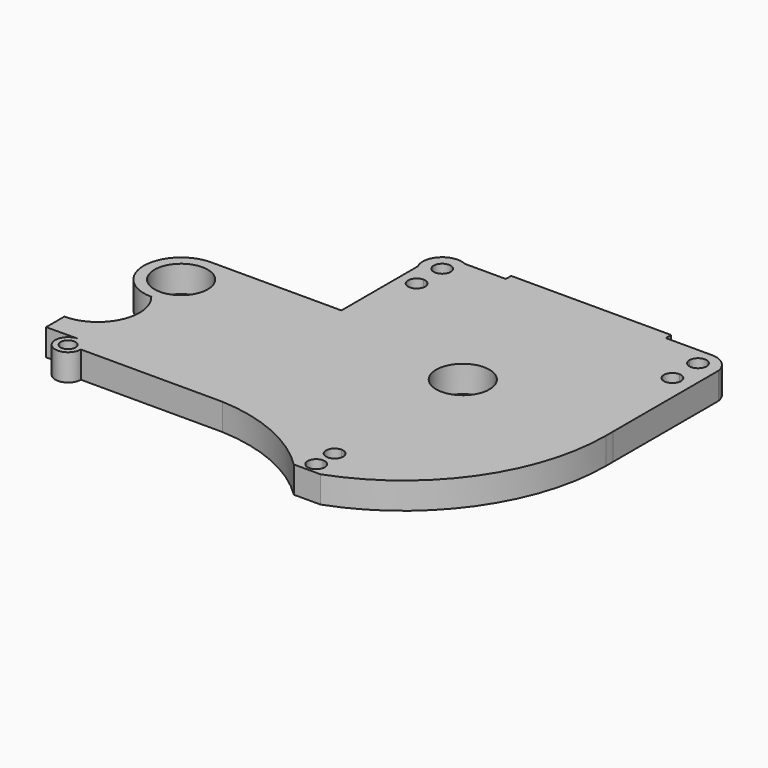
from build123d import *

# Parameters (mm, degrees)
F0_R     = 1.778
F0_R_2   = 6.35
F0_W     = 38.1
F0_H     = 1.5911871894
F1_DEPTH = 6.35


with BuildPart() as f1:
    # F0 (on Top) → F1 (new body)
    with BuildSketch(Plane.XY):
        with BuildLine():
            Line((16.4140281489, -30.8064179522), (16.4140281489, -30.6620997704))
            ThreePointArc((16.4140281489, -30.6620997704), (38.6980048273, -19.7929887048), (48.1532220223, 3.1266984605))
            Line((48.1532220223, 3.1266984605), (48.1532220223, 5.1104656351))
            ThreePointArc((48.1532220223, 5.1104656351), (44.4486160884, 19.800484772), (34.8719360944, 31.5396486119))
            Line((34.8719360944, 31.5396486119), (32.2923098035, 36.5656356997))
            Line((32.2923098035, 36.5656356997), (32.2923098035, 40.7379940159))
            Line((32.2923098035, 40.7379940159), (-5.8076901965, 40.7379940159))
            Line((-5.8076901965, 40.7379940159), (-5.8076901965, 36.5656356997))
            Line((-5.8076901965, 36.5656356997), (-8.3873164875, 31.5396486119))
            ThreePointArc((-8.3873164875, 31.5396486119), (-18.0627806357, 19.7145570203), (-21.7750586109, 4.893410308))
            ThreePointArc((-21.7750586109, 4.893410308), (-21.4769400323, -0.6314389882), (-20.311434257, -6.0401755062))
            ThreePointArc((-20.311434257, -6.0401755062), (-16.1913746397, -14.967065801), (-9.7499520252, -22.3948741107))
            Line((-9.7499520252, -22.3948741107), (-52.8449263588, -22.3948741107))
            Line((-52.8449263588, -22.3948741107), (-60.4649263588, -22.3948741107))
            Line((-60.4649263588, -22.3948741107), (-60.4649263588, -27.8276202867))
            Line((-60.4649263588, -27.8276202867), (-52.9002836607, -27.758920689))
            ThreePointArc((-52.9002836607, -27.758920689), (-54.980526385, -32.9811631161), (-49.7969263588, -30.8064179522))
            Line((-49.7969263588, -30.8064179522), (-19.8648082777, -30.8064179522))
            ThreePointArc((-19.8648082777, -30.8064179522), (-17.9420934961, -30.7601008655), (-16.0193787145, -30.8064179522))
            Line((-16.0193787145, -30.8064179522), (10.0673098035, -30.8064179522))
            Line((10.0673098035, -30.8064179522), (13.2406689762, -30.8064179522))
            Line((13.2406689762, -30.8064179522), (16.4140281489, -30.8064179522))
        make_face()
        with Locations((-52.8449263588, -30.8064179522)):
            Circle(F0_R, mode=Mode.SUBTRACT)
        with Locations((13.2423098035, 4.1185820478)):
            Circle(F0_R_2, mode=Mode.SUBTRACT)
        with BuildLine():
            ThreePointArc((48.1532220223, 3.1266984605), (38.6980048273, -19.7929887048), (16.4140281489, -30.6620997704))
            Line((16.4140281489, -30.6620997704), (16.4140281489, -30.8064179522))
            Line((16.4140281489, -30.8064179522), (16.4140281489, -42.2313285658))
            ThreePointArc((16.4140281489, -42.2313285658), (39.4304466926, -24.5532899944), (48.1532220223, 3.1266984605))
        make_face()
        with BuildLine():
            Line((48.1532220223, 5.1104656351), (48.1532220223, 3.1266984605))
            ThreePointArc((48.1532220223, 3.1266984605), (48.1673098035, 4.1185820478), (48.1532220223, 5.1104656351))
        make_face()
        with BuildLine():
            Line((16.4140281489, -42.2313285658), (16.4140281489, -30.8064179522))
            Line((16.4140281489, -30.8064179522), (13.2406689762, -30.8064179522))
            Line((13.2406689762, -30.8064179522), (13.2406689762, -32.0282139509))
            ThreePointArc((13.2406689762, -32.0282139509), (14.6746436477, -32.6221857079), (15.2686154047, -34.0561603794))
            ThreePointArc((15.2686154047, -34.0561603794), (14.6746436477, -35.4901350508), (13.2406689762, -36.0841068079))
            Line((13.2406689762, -36.0841068079), (13.2406689762, -37.5133532824))
            ThreePointArc((13.2406689762, -37.5133532824), (14.6775099555, -38.108512303), (15.2726689762, -39.5453532824))
            ThreePointArc((15.2726689762, -39.5453532824), (14.6775099555, -40.9821942618), (13.2406689762, -41.5773532824))
            Line((13.2406689762, -41.5773532824), (13.2406689762, -42.2313285658))
            Line((13.2406689762, -42.2313285658), (16.4140281489, -42.2313285658))
        make_face()
        with BuildLine():
            ThreePointArc((34.8719360944, 31.5396486119), (44.4486160884, 19.800484772), (48.1532220223, 5.1104656351))
            Line((48.1532220223, 5.1104656351), (48.1532220223, 36.5656356997))
            ThreePointArc((48.1532220223, 36.5656356997), (46.5024271992, 39.5513463721), (43.3037619874, 40.7379940159))
            Line((43.3037619874, 40.7379940159), (32.2923098035, 40.7379940159))
            Line((32.2923098035, 40.7379940159), (32.2923098035, 36.5656356997))
            Line((32.2923098035, 36.5656356997), (34.8719360944, 31.5396486119))
        make_face()
        with BuildLine():
            ThreePointArc((45.3357619874, 28.9456356997), (41.866921008, 27.5087947203), (43.3037619874, 30.9776356997))
            ThreePointArc((43.3037619874, 30.9776356997), (44.7406029667, 30.3824766791), (45.3357619874, 28.9456356997))
        make_face(mode=Mode.SUBTRACT)
        with BuildLine():
            ThreePointArc((43.3037619874, 34.5336356997), (41.866921008, 35.1287947203), (41.2717619874, 36.5656356997))
            ThreePointArc((41.2717619874, 36.5656356997), (43.3037619874, 38.5976356997), (45.3357619874, 36.5656356997))
            ThreePointArc((45.3357619874, 36.5656356997), (44.7406029667, 35.1287947203), (43.3037619874, 34.5336356997))
        make_face(mode=Mode.SUBTRACT)
        with BuildLine():
            Line((13.2406689762, -32.0282139509), (13.2406689762, -30.8064179522))
            Line((13.2406689762, -30.8064179522), (10.0673098035, -30.8064179522))
            Line((10.0673098035, -30.8064179522), (10.0673098035, -42.2313285658))
            Line((10.0673098035, -42.2313285658), (13.2406689762, -42.2313285658))
            Line((13.2406689762, -42.2313285658), (13.2406689762, -41.5773532824))
            ThreePointArc((13.2406689762, -41.5773532824), (11.2086689762, -39.5453532824), (13.2406689762, -37.5133532824))
            Line((13.2406689762, -37.5133532824), (13.2406689762, -36.0841068079))
            ThreePointArc((13.2406689762, -36.0841068079), (11.2127225477, -34.0561603794), (13.2406689762, -32.0282139509))
        make_face()
        with BuildLine():
            Line((10.0673098035, -42.2313285658), (10.0673098035, -30.8064179522))
            Line((10.0673098035, -30.8064179522), (-16.0193787145, -30.8064179522))
            ThreePointArc((-16.0193787145, -30.8064179522), (-1.9228841261, -34.1141975872), (10.0673098035, -42.2313285658))
        make_face()
        with BuildLine():
            Line((-19.8648082777, -30.8064179522), (-16.0193787145, -30.8064179522))
            ThreePointArc((-16.0193787145, -30.8064179522), (-17.9420934961, -30.7601008655), (-19.8648082777, -30.8064179522))
        make_face()
        with Locations((13.2423098035, 41.5335876106)):
            Rectangle(F0_W, F0_H)
        with BuildLine():
            Line((-5.8076901965, 36.5656356997), (-5.8076901965, 40.7379940159))
            Line((-5.8076901965, 40.7379940159), (-15.5782827911, 40.7379940159))
            Line((-15.5782827911, 40.7379940159), (-19.681555644, 40.7379940159))
            ThreePointArc((-19.681555644, 40.7379940159), (-22.040670707, 38.0363692731), (-21.7750586109, 34.4595480103))
            Line((-21.7750586109, 34.4595480103), (-21.7750586109, 11.7398244938))
            Line((-21.7750586109, 11.7398244938), (-21.7750586109, 4.893410308))
            ThreePointArc((-21.7750586109, 4.893410308), (-18.0627806357, 19.7145570203), (-8.3873164875, 31.5396486119))
            Line((-8.3873164875, 31.5396486119), (-5.8076901965, 36.5656356997))
        make_face()
        with BuildLine():
            ThreePointArc((-15.5979192176, 28.9456356997), (-19.0667601969, 27.5087947203), (-17.6299192176, 30.9776356997))
            ThreePointArc((-17.6299192176, 30.9776356997), (-16.1930782382, 30.3824766791), (-15.5979192176, 28.9456356997))
        make_face(mode=Mode.SUBTRACT)
        with BuildLine():
            ThreePointArc((-17.6299192176, 34.5336356997), (-19.0667601969, 38.0024766791), (-15.5979192176, 36.5656356997))
            ThreePointArc((-15.5979192176, 36.5656356997), (-16.1930782382, 35.1287947203), (-17.6299192176, 34.5336356997))
        make_face(mode=Mode.SUBTRACT)
        with BuildLine():
            Line((-19.681555644, 40.7379940159), (-15.5782827911, 40.7379940159))
            ThreePointArc((-15.5782827911, 40.7379940159), (-17.6299192176, 41.2151287844), (-19.681555644, 40.7379940159))
        make_face()
        with BuildLine():
            ThreePointArc((-20.311434257, -6.0401755062), (-21.4769400323, -0.6314389882), (-21.7750586109, 4.893410308))
            Line((-21.7750586109, 4.893410308), (-21.7750586109, 11.7398244938))
            Line((-21.7750586109, 11.7398244938), (-52.8400652111, 11.7398244938))
            ThreePointArc((-52.8400652111, 11.7398244938), (-61.7300652111, 2.8498244938), (-52.8400652111, -6.0401755062))
            Line((-52.8400652111, -6.0401755062), (-20.311434257, -6.0401755062))
        make_face()
        with Locations((-52.8400652111, 2.8498244938)):
            Circle(F0_R_2, mode=Mode.SUBTRACT)
        with BuildLine():
            ThreePointArc((-52.8400652111, -6.0401755062), (-51.4425282025, -16.6465074734), (-60.4649263588, -22.3948741107))
            Line((-60.4649263588, -22.3948741107), (-52.8449263588, -22.3948741107))
            Line((-52.8449263588, -22.3948741107), (-9.7499520252, -22.3948741107))
            ThreePointArc((-9.7499520252, -22.3948741107), (-16.1913746397, -14.967065801), (-20.311434257, -6.0401755062))
            Line((-20.311434257, -6.0401755062), (-52.8400652111, -6.0401755062))
        make_face()
    extrude(amount=F1_DEPTH)


solid = f1.part
